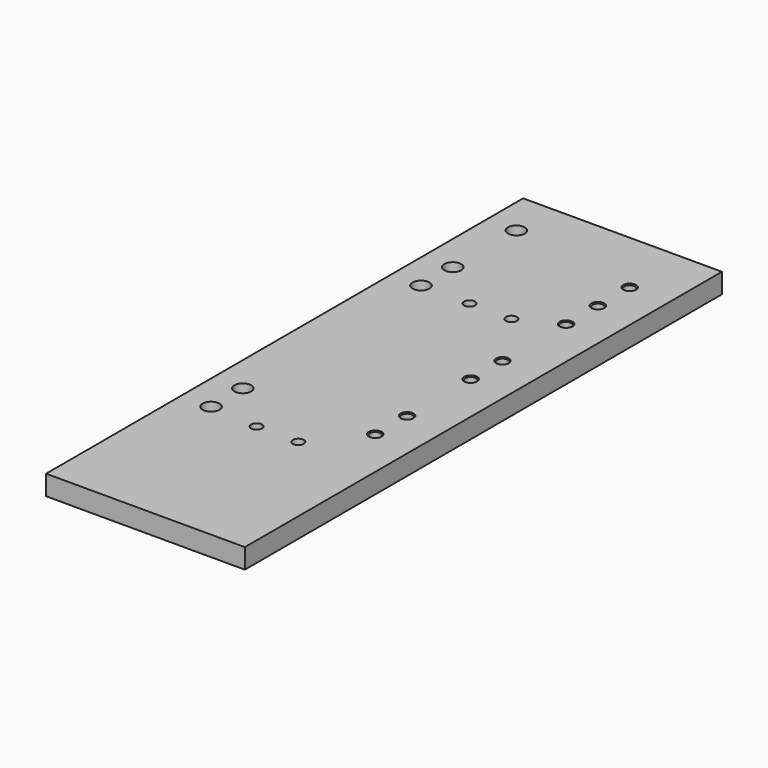
from build123d import *

# Parameters (mm, degrees)
F0_W     = 300
F0_H     = 10
F1_DEPTH = 100
F2_R     = 2.75
F2_R_2   = 4.25
F3_DEPTH = 10.001
F4_R     = 2.75
F5_DEPTH = 10.001
F6_SIZE  = 0.5


with BuildPart() as f1:
    # F0 (on Right) → F1 (new body)
    with BuildSketch(Plane.YZ):
        with Locations((-150, 5)):
            Rectangle(F0_W, F0_H)
    extrude(amount=F1_DEPTH)

    # F2 (on face) → F3 (cut, through all)
    with BuildSketch(Plane.XY.offset(10)):
        with Locations((60.5, -83)):
            Circle(F2_R)
        with Locations((39.5, -83)):
            Circle(F2_R)
        with Locations((39.5, -217)):
            Circle(F2_R)
        with Locations((60.5, -217)):
            Circle(F2_R)
        with Locations((15, -215)):
            Circle(F2_R_2)
        with Locations((15, -195)):
            Circle(F2_R_2)
        with Locations((15, -83)):
            Circle(F2_R_2)
        with Locations((15, -63)):
            Circle(F2_R_2)
        with Locations((15, -23)):
            Circle(F2_R_2)
    extrude(amount=-F3_DEPTH, mode=Mode.SUBTRACT)

    # F4 (on face) → F5 (cut, through all)
    with BuildSketch(Plane.XY.offset(10)):
        with Locations((80, -193)):
            Circle(F4_R)
        with Locations((80, -173)):
            Circle(F4_R)
        with Locations((80, -133)):
            Circle(F4_R)
        with Locations((80, -113)):
            Circle(F4_R)
        with Locations((80, -73)):
            Circle(F4_R)
        with Locations((80, -53)):
            Circle(F4_R)
        with Locations((80, -33)):
            Circle(F4_R)
    extrude(amount=-F5_DEPTH, mode=Mode.SUBTRACT)

    # F6
    f6_edges = [f1.edges().sort_by_distance(p)[0] for p in [
        (77.25, -53, 10),
        (82.75, -53, 5),
        (77.25, -53, 0),
        (77.25, -73, 10),
        (82.75, -73, 5),
        (77.25, -73, 0),
        (77.25, -113, 10),
        (82.75, -113, 5),
        (77.25, -113, 0),
        (77.25, -133, 10),
        (82.75, -133, 5),
        (77.25, -133, 0),
        (77.25, -173, 10),
        (82.75, -173, 5),
        (77.25, -173, 0),
        (77.25, -193, 10),
        (82.75, -193, 5),
        (77.25, -193, 0),
        (77.25, -33, 10),
        (82.75, -33, 5),
        (77.25, -33, 0),
    ]]
    chamfer(f6_edges, length=F6_SIZE)


solid = f1.part
